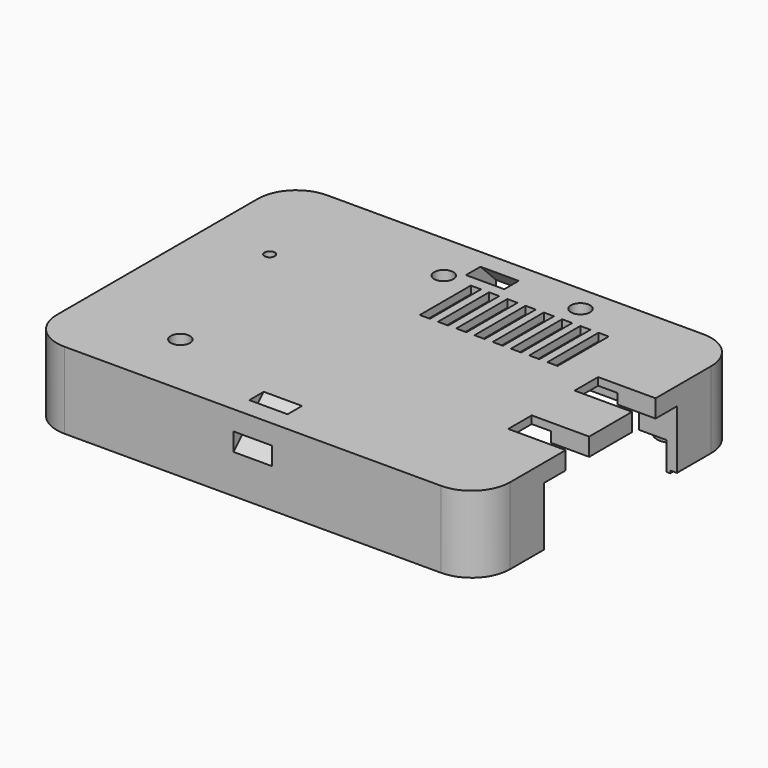
from build123d import *

# Parameters (mm, degrees)
PAD002_DEPTH                  = 15.24
SKETCH006_W                   = 33.02
SKETCH006_H                   = 11.684
POCKET003_DEPTH               = 50.8
SKETCH007_R                   = 1.905
POCKET004_DEPTH               = 15.241
SKETCH008_R                   = 1.397
POCKET005_DEPTH               = 12.7
PAD003_DEPTH                  = 0.508
POCKET006_DEPTH               = 13.716
POCKET006_MIRRORED002_2_DEPTH = 13.716
SKETCH011_R                   = 1.016
POCKET007_DEPTH               = 15.749
SKETCH012_R                   = 3.556
SKETCH012_R_2                 = 1.016
SKETCH012_R_3                 = 1.905
PAD004_DEPTH                  = 10.16
SKETCH013_W                   = 2.032
SKETCH013_H                   = 12.7
POCKET008_DEPTH               = 15.749
LINEARPATTERN001_COUNT        = 8
LINEARPATTERN001_PITCH        = 3.628571
POCKET009_DEPTH               = 5.08
POCKET010_DEPTH               = 3.81
SKETCH016_R                   = 3.168854
SKETCH016_W                   = 8.848516
SKETCH016_H                   = 9.89258
POCKET011_DEPTH               = 13.716
SKETCH017_R                   = 3.175
POCKET012_DEPTH               = 5.08
SKETCH018_R                   = 4.445
POCKET013_DEPTH               = 0.9652
SKETCH019_W                   = 5.842
SKETCH019_H                   = 5.08
POCKET014_DEPTH               = 11.43


with BuildPart() as part:
    # Sketch005 → Pad002 (new body)
    with BuildSketch(Plane.XY):
        with BuildLine():
            Line((-37.465, -32.639), (37.465, -32.639))
            ThreePointArc((37.465, -32.639), (42.853154, -30.407154), (45.085, -25.019))
            Line((45.085, -25.019), (45.085, 25.019))
            ThreePointArc((45.085, 25.019), (42.853154, 30.407154), (37.465, 32.639))
            Line((37.465, 32.639), (-37.465, 32.639))
            ThreePointArc((-37.465, 32.639), (-42.853154, 30.407154), (-45.085, 25.019))
            Line((-45.085, 25.019), (-45.085, -25.019))
            ThreePointArc((-45.085, -25.019), (-42.853154, -30.407154), (-37.465, -32.639))
        make_face()
    extrude(amount=PAD002_DEPTH)

    # Sketch006 (on Face3 of Pad002) → Pocket003 (cut)
    with BuildSketch(Plane.YZ.offset(45.085)):
        with Locations((0, 5.842)):
            Rectangle(SKETCH006_W, SKETCH006_H)
    extrude(amount=-POCKET003_DEPTH, mode=Mode.SUBTRACT)

    # Sketch007 (on Face5 of Pocket003) → Pocket004 (cut, through all)
    with BuildSketch(Plane.XY.offset(15.24)):
        with Locations((-24.921036, -19.484434)):
            Circle(SKETCH007_R)
        with Locations((-6.389822, 22.858831)):
            Circle(SKETCH007_R)
        with Locations((17.175787, 27.39946)):
            Circle(SKETCH007_R)
    extrude(amount=-POCKET004_DEPTH, mode=Mode.SUBTRACT)

    # Sketch008 (on Face4 of Pocket004) → Pocket005 (cut)
    with BuildSketch(Plane(origin=(0, 0, 0), x_dir=(1, 0, 0), z_dir=(0, 0, -1))):
        with Locations((37.5, 25)):
            Circle(SKETCH008_R)
        with Locations((37.5, -25)):
            Circle(SKETCH008_R)
        with Locations((-37.5, -25)):
            Circle(SKETCH008_R)
        with Locations((-37.5, 25)):
            Circle(SKETCH008_R)
    extrude(amount=-POCKET005_DEPTH, mode=Mode.SUBTRACT)

    # Sketch009 (on Face4 of Pocket005) → Pad003 (join)
    with BuildSketch(Plane(origin=(0, 0, 0), x_dir=(1, 0, 0), z_dir=(0, 0, -1))):
        with BuildLine():
            Line((-37.5, -31.242), (37.5, -31.242))
            ThreePointArc((37.5, -31.242), (41.913761, -29.413761), (43.742, -25))
            Line((43.742, -25), (43.742, 25))
            ThreePointArc((43.742, 25), (41.913761, 29.413761), (37.5, 31.242))
            Line((37.5, 31.242), (-37.5, 31.242))
            ThreePointArc((-37.5, 31.242), (-41.913761, 29.413761), (-43.742, 25))
            Line((-43.742, 25), (-43.742, -25))
            ThreePointArc((-43.742, -25), (-41.913761, -29.413761), (-37.5, -31.242))
        make_face()
        with BuildLine():
            Line((-37.5, -30.48), (37.5, -30.48))
            ThreePointArc((37.5, -30.48), (41.374945, -28.874945), (42.98, -25))
            Line((42.98, -25), (42.98, 25))
            ThreePointArc((42.98, 25), (41.374945, 28.874945), (37.5, 30.48))
            Line((37.5, 30.48), (-37.5, 30.48))
            ThreePointArc((-37.5, 30.48), (-41.374945, 28.874945), (-42.98, 25))
            Line((-42.98, 25), (-42.98, -25))
            ThreePointArc((-42.98, -25), (-41.374945, -28.874945), (-37.5, -30.48))
        make_face(mode=Mode.SUBTRACT)
    extrude(amount=PAD003_DEPTH)

    # Sketch010 (on Face26 of Pad003) → Pocket006 (cut)
    with BuildSketch(Plane(origin=(0, 0, 0), x_dir=(1, 0, 0), z_dir=(0, 0, -1))):
        with BuildLine():
            ThreePointArc((-37.5, 21.825), (-35.254936, 22.754936), (-34.325, 25))
            Line((-34.325, 25), (0, 25))
            Line((0, 25), (0, 0))
            Line((-37.5, 0), (0, 0))
            Line((-37.5, 21.825), (-37.5, 0))
        make_face()
    pocket006 = extrude(amount=-POCKET006_DEPTH, mode=Mode.SUBTRACT)

    # Sketch010 Mirrored002 2 → Pocket006 Mirrored002 2 (cut)
    with BuildSketch(Plane(origin=(0, 0, 0), x_dir=(-1, 0, 0), z_dir=(0, 0, 1))):
        with BuildLine():
            ThreePointArc((-37.5, 21.825), (-35.254936, 22.754936), (-34.325, 25))
            Line((-34.325, 25), (0, 25))
            Line((0, 25), (0, 0))
            Line((-37.5, 0), (0, 0))
            Line((-37.5, 21.825), (-37.5, 0))
        make_face()
    pocket006_mirrored002_2 = extrude(amount=POCKET006_MIRRORED002_2_DEPTH, mode=Mode.SUBTRACT)

    # Mirrored003: Pocket006, Pocket006 Mirrored002 2 across Sketch010 H_Axis
    add(pocket006.mirror(Plane(origin=(0, 0, 0), x_dir=(0, 0, -1), z_dir=(0, -1, 0))), mode=Mode.SUBTRACT)
    add(pocket006_mirrored002_2.mirror(Plane(origin=(0, 0, 0), x_dir=(0, 0, -1), z_dir=(0, -1, 0))), mode=Mode.SUBTRACT)

    # Sketch011 (on Face5 of MultiTransform001) → Pocket007 (cut, through all)
    with BuildSketch(Plane.XY.offset(15.24)):
        with Locations((-31.977287, 11.541788)):
            Circle(SKETCH011_R)
    extrude(amount=-POCKET007_DEPTH, mode=Mode.SUBTRACT)

    # Sketch012 (on Face31 of Pocket007) → Pad004 (join)
    with BuildSketch(Plane(origin=(0, 0, 13.716), x_dir=(1, 0, 0), z_dir=(0, 0, -1))):
        with Locations((-31.977287, -11.541788)):
            Circle(SKETCH012_R)
        with Locations((-31.977287, -11.541788)):
            Circle(SKETCH012_R_2, mode=Mode.SUBTRACT)
        with Locations((-24.921036, 19.484434)):
            Circle(SKETCH012_R)
        with Locations((-24.921036, 19.484434)):
            Circle(SKETCH012_R_3, mode=Mode.SUBTRACT)
        with Locations((-6.389822, -22.858831)):
            Circle(SKETCH012_R)
        with Locations((-6.389822, -22.858831)):
            Circle(SKETCH012_R_3, mode=Mode.SUBTRACT)
    extrude(amount=PAD004_DEPTH)

    # Sketch013 (on Face5 of Pad004) → Pocket008 (cut, through all)
    with BuildSketch(Plane.XY.offset(15.24)):
        with Locations((0, 16.51)):
            Rectangle(SKETCH013_W, SKETCH013_H)
    pocket008 = extrude(amount=-POCKET008_DEPTH, mode=Mode.SUBTRACT)

    # LinearPattern001: Pocket008 ×8
    with Locations(*[(i * LINEARPATTERN001_PITCH, 0, 0) for i in range(1, LINEARPATTERN001_COUNT)]):
        add(pocket008, mode=Mode.SUBTRACT)

    # Sketch014 (on Face7 of LinearPattern001) → Pocket009 (cut)
    with BuildSketch(Plane.YZ.offset(45.085)):
        Polygon((5.334, 14.732), (5.334, 11.684), (0, 11.684), (0, 0), (0, -2.032), (16.51, -2.032), (16.51, 11.684), (11.176, 11.684), (11.176, 14.732), align=None)
    pocket009 = extrude(amount=-POCKET009_DEPTH, mode=Mode.SUBTRACT)

    # Mirrored004: Pocket009 across Sketch014 V_Axis
    add(pocket009.mirror(Plane(origin=(45.085, 0, 0), x_dir=(1, 0, 0), z_dir=(0, 1, 0))), mode=Mode.SUBTRACT)

    # Sketch015 → Pocket010 (cut, symmetric)
    with BuildSketch(Plane.YZ):
        Polygon((0, 40.386), (-40.386, 0), (-40.386, 3.592102), (-3.592102, 40.386), align=None)
    pocket010 = extrude(amount=POCKET010_DEPTH, both=True, mode=Mode.SUBTRACT)

    # Mirrored005: Pocket010 across XZ
    add(pocket010.mirror(Plane.XZ), mode=Mode.SUBTRACT)

    # Sketch016 (on Face77 of Mirrored005) → Pocket011 (cut)
    with BuildSketch(Plane(origin=(0, 0, 0), x_dir=(1, 0, 0), z_dir=(0, 0, -1))):
        with Locations((8.491343, -25.942871)):
            Circle(SKETCH016_R)
        with Locations((27.06874, -24.191018)):
            Rectangle(SKETCH016_W, SKETCH016_H)
    extrude(amount=-POCKET011_DEPTH, mode=Mode.SUBTRACT)

    # Sketch017 (on Face77 of Pocket011) → Pocket012 (cut)
    with BuildSketch(Plane(origin=(0, 0, 0), x_dir=(1, 0, 0), z_dir=(0, 0, -1))):
        with BuildLine():
            Line((-37.5, -30.48), (37.5, -30.48))
            ThreePointArc((37.5, -30.48), (41.374945, -28.874945), (42.98, -25))
            Line((42.98, -25), (42.98, 25))
            ThreePointArc((42.98, 25), (41.374945, 28.874945), (37.5, 30.48))
            Line((37.5, 30.48), (-37.5, 30.48))
            ThreePointArc((-37.5, 30.48), (-41.374945, 28.874945), (-42.98, 25))
            Line((-42.98, 25), (-42.98, -25))
            ThreePointArc((-42.98, -25), (-41.374945, -28.874945), (-37.5, -30.48))
        make_face()
        with Locations((37.5, -25)):
            Circle(SKETCH017_R, mode=Mode.SUBTRACT)
        with Locations((37.5, 25)):
            Circle(SKETCH017_R, mode=Mode.SUBTRACT)
        with Locations((-37.5, 25)):
            Circle(SKETCH017_R, mode=Mode.SUBTRACT)
        with Locations((-37.5, -25)):
            Circle(SKETCH017_R, mode=Mode.SUBTRACT)
    extrude(amount=-POCKET012_DEPTH, mode=Mode.SUBTRACT)

    # Sketch018 (on Face146 of Pocket012) → Pocket013 (cut)
    with BuildSketch(Plane(origin=(0, 0, 0), x_dir=(1, 0, 0), z_dir=(0, 0, -1))):
        with Locations((-37.5, 25)):
            Circle(SKETCH018_R)
        with Locations((37.5, 25)):
            Circle(SKETCH018_R)
        with Locations((37.5, -25)):
            Circle(SKETCH018_R)
        with Locations((-37.5, -25)):
            Circle(SKETCH018_R)
    extrude(amount=-POCKET013_DEPTH, mode=Mode.SUBTRACT)

    # Sketch019 (on Face14 of Pocket013) → Pocket014 (cut)
    with BuildSketch(Plane.YZ.offset(45.085)):
        with Locations((8.255, 14.224)):
            Rectangle(SKETCH019_W, SKETCH019_H)
    pocket014 = extrude(amount=-POCKET014_DEPTH, mode=Mode.SUBTRACT)

    # Mirrored006: Pocket014 across Sketch019 V_Axis
    add(pocket014.mirror(Plane(origin=(45.085, 0, 0), x_dir=(1, 0, 0), z_dir=(0, 1, 0))), mode=Mode.SUBTRACT)


with BuildPart() as part_1:
    # Body001 placement: moved
    add(part.part.moved(Location((0, 0, 0.635))))


solid = part_1.part
